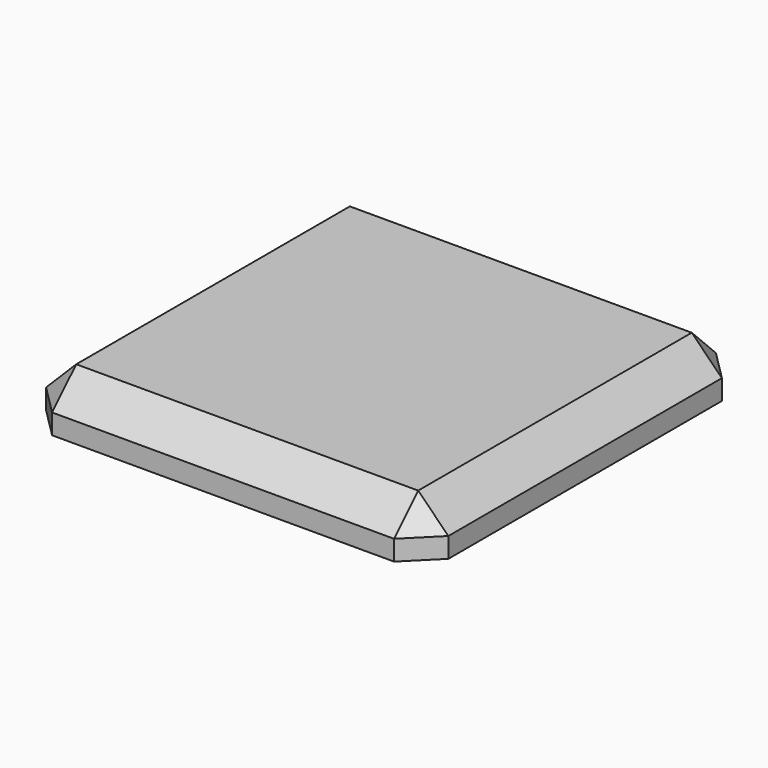
from build123d import *

# Parameters (mm, degrees)
BOX062_W                   = 20
BOX062_H                   = 20
BOX062_DEPTH               = 2.5
SKETCH050_R                = 2.4
PAD017_DEPTH               = 2
CHAMFER002_SIZE            = 1.5
CHAMFER002_PLACEMENT_ANGLE = 180


with BuildPart() as cubo045:
    # Box062 → Box062 (new body)
    with BuildSketch(Plane.XY):
        with Locations((10, 10)):
            Rectangle(BOX062_W, BOX062_H)
    extrude(amount=BOX062_DEPTH)


with BuildPart() as pad017:
    # Pad017 base: copy of Cubo045
    add(cubo045.part)

    # Sketch050 → Pad017 (new body)
    with BuildSketch(Plane.XY.offset(2.5)):
        with Locations((10, 10.425099)):
            Circle(SKETCH050_R)
    extrude(amount=PAD017_DEPTH)


with BuildPart() as chamfer002:
    # Fusion038 base: copy of Cubo045
    add(cubo045.part)

    # Fusion038: union Pad017
    add(pad017.part)

    # Chamfer002
    chamfer002_edges = [chamfer002.edges().sort_by_distance(p)[0] for p in [
        (0, 0, 1.25),
        (0, 10, 0),
        (0, 20, 1.25),
        (10, 0, 0),
        (20, 0, 1.25),
        (10, 20, 0),
        (20, 20, 1.25),
        (20, 10, 0),
    ]]
    chamfer(chamfer002_edges, length=CHAMFER002_SIZE)


with BuildPart() as chamfer002_1:
    # Chamfer002 placement: moved
    add(chamfer002.part.moved(Location((197, -157, 225.5))).rotate(Axis((197, -157, 225.5), (1, 0, 0)), CHAMFER002_PLACEMENT_ANGLE))


solid = chamfer002_1.part
